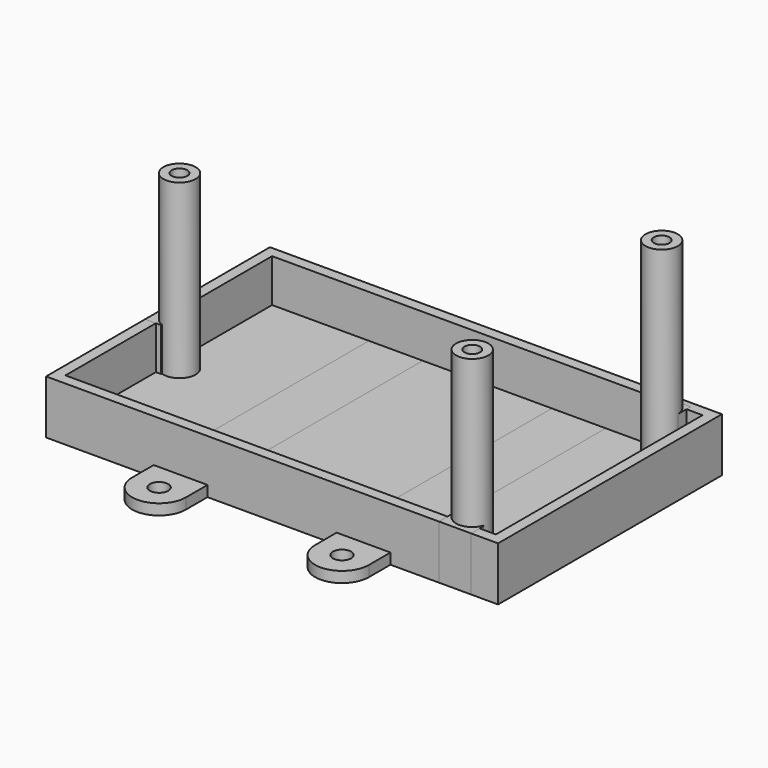
from build123d import *

# Parameters (mm, degrees)
CYLINDER005_R     = 1.45
CYLINDER005_DEPTH = 32
CYLINDER_R        = 3
CYLINDER_DEPTH    = 32
CYLINDER003_R     = 1.45
CYLINDER003_DEPTH = 35.5
CYLINDER001_R     = 3
CYLINDER001_DEPTH = 35.5
CYLINDER004_R     = 1.45
CYLINDER004_DEPTH = 35.5
CYLINDER002_R     = 3
CYLINDER002_DEPTH = 35.5
BOX001_W          = 80
BOX001_H          = 48
BOX001_DEPTH      = 10
BOX_W             = 84
BOX_H             = 52
BOX_DEPTH         = 10
BOX002_W          = 3
BOX002_H          = 6
BOX002_DEPTH      = 10
BOX003_W          = 6
BOX003_H          = 3
BOX003_DEPTH      = 10
BOX004_W          = 6
BOX004_H          = 3
BOX004_DEPTH      = 10
CYLINDER008_R     = 1.7
CYLINDER008_DEPTH = 2
CYLINDER009_R     = 1.7
CYLINDER009_DEPTH = 2
BOX005_W          = 10
BOX005_H          = 62
BOX005_DEPTH      = 2
CYLINDER006_R     = 5
CYLINDER006_DEPTH = 2
CYLINDER007_R     = 5
CYLINDER007_DEPTH = 2
CYLINDER010_R     = 1.7
CYLINDER010_DEPTH = 2
CYLINDER011_R     = 1.7
CYLINDER011_DEPTH = 2
BOX006_W          = 10
BOX006_H          = 62
BOX006_DEPTH      = 2
CYLINDER013_R     = 5
CYLINDER013_DEPTH = 2
CYLINDER012_R     = 5
CYLINDER012_DEPTH = 2


with BuildPart() as cylinder005:
    # Cylinder005 → Cylinder005 (new body)
    with BuildSketch(Plane(origin=(4, 26, 2), x_dir=(1, 0, 0), z_dir=(0, 0, 1))):
        Circle(CYLINDER005_R)
    extrude(amount=CYLINDER005_DEPTH)


with BuildPart() as cut:
    # Cylinder → Cylinder (new body)
    with BuildSketch(Plane(origin=(4, 26, 2), x_dir=(1, 0, 0), z_dir=(0, 0, 1))):
        Circle(CYLINDER_R)
    extrude(amount=CYLINDER_DEPTH)

    # Cut: cut Cylinder005
    add(cylinder005.part, mode=Mode.SUBTRACT)


with BuildPart() as cylinder003:
    # Cylinder003 → Cylinder003 (new body)
    with BuildSketch(Plane(origin=(76, 4, 2), x_dir=(1, 0, 0), z_dir=(0, 0, 1))):
        Circle(CYLINDER003_R)
    extrude(amount=CYLINDER003_DEPTH)


with BuildPart() as cut001:
    # Cylinder001 → Cylinder001 (new body)
    with BuildSketch(Plane(origin=(76, 4, 2), x_dir=(1, 0, 0), z_dir=(0, 0, 1))):
        Circle(CYLINDER001_R)
    extrude(amount=CYLINDER001_DEPTH)

    # Cut001: cut Cylinder003
    add(cylinder003.part, mode=Mode.SUBTRACT)


with BuildPart() as cylinder004:
    # Cylinder004 → Cylinder004 (new body)
    with BuildSketch(Plane(origin=(76, 48, 2), x_dir=(1, 0, 0), z_dir=(0, 0, 1))):
        Circle(CYLINDER004_R)
    extrude(amount=CYLINDER004_DEPTH)


with BuildPart() as cut002:
    # Cylinder002 → Cylinder002 (new body)
    with BuildSketch(Plane(origin=(76, 48, 2), x_dir=(1, 0, 0), z_dir=(0, 0, 1))):
        Circle(CYLINDER002_R)
    extrude(amount=CYLINDER002_DEPTH)

    # Cut002: cut Cylinder004
    add(cylinder004.part, mode=Mode.SUBTRACT)


with BuildPart() as cube001:
    # Box001 → Box001 (new body)
    with BuildSketch(Plane(origin=(2, 2, 2), x_dir=(1, 0, 0), z_dir=(0, 0, 1))):
        with Locations((40, 24)):
            Rectangle(BOX001_W, BOX001_H)
    extrude(amount=BOX001_DEPTH)


with BuildPart() as cut003:
    # Box → Box (new body)
    with BuildSketch(Plane.XY):
        with Locations((42, 26)):
            Rectangle(BOX_W, BOX_H)
    extrude(amount=BOX_DEPTH)

    # Cut003: cut Cube001
    add(cube001.part, mode=Mode.SUBTRACT)


with BuildPart() as cube002:
    # Box002 → Box002 (new body)
    with BuildSketch(Plane(origin=(0, 23, 0), x_dir=(1, 0, 0), z_dir=(0, 0, 1))):
        with Locations((1.5, 3)):
            Rectangle(BOX002_W, BOX002_H)
    extrude(amount=BOX002_DEPTH)


with BuildPart() as cube003:
    # Box003 → Box003 (new body)
    with BuildSketch(Plane(origin=(73, 0, 0), x_dir=(1, 0, 0), z_dir=(0, 0, 1))):
        with Locations((3, 1.5)):
            Rectangle(BOX003_W, BOX003_H)
    extrude(amount=BOX003_DEPTH)


with BuildPart() as cube004:
    # Box004 → Box004 (new body)
    with BuildSketch(Plane(origin=(73, 48, 0), x_dir=(1, 0, 0), z_dir=(0, 0, 1))):
        with Locations((3, 1.5)):
            Rectangle(BOX004_W, BOX004_H)
    extrude(amount=BOX004_DEPTH)


with BuildPart() as cylinder008:
    # Cylinder008 → Cylinder008 (new body)
    with BuildSketch(Plane(origin=(25, 57, 0), x_dir=(1, 0, 0), z_dir=(0, 0, 1))):
        Circle(CYLINDER008_R)
    extrude(amount=CYLINDER008_DEPTH)


with BuildPart() as fusion001:
    # Cylinder009 → Cylinder009 (new body)
    with BuildSketch(Plane(origin=(25, -5, 0), x_dir=(1, 0, 0), z_dir=(0, 0, 1))):
        Circle(CYLINDER009_R)
    extrude(amount=CYLINDER009_DEPTH)

    # Fusion001: union Cylinder008
    add(cylinder008.part)


with BuildPart() as cube005:
    # Box005 → Box005 (new body)
    with BuildSketch(Plane(origin=(20, -5, 0), x_dir=(1, 0, 0), z_dir=(0, 0, 1))):
        with Locations((5, 31)):
            Rectangle(BOX005_W, BOX005_H)
    extrude(amount=BOX005_DEPTH)


with BuildPart() as cylinder006:
    # Cylinder006 → Cylinder006 (new body)
    with BuildSketch(Plane(origin=(25, -5, 0), x_dir=(1, 0, 0), z_dir=(0, 0, 1))):
        Circle(CYLINDER006_R)
    extrude(amount=CYLINDER006_DEPTH)


with BuildPart() as cut004:
    # Cylinder007 → Cylinder007 (new body)
    with BuildSketch(Plane(origin=(25, 57, 0), x_dir=(1, 0, 0), z_dir=(0, 0, 1))):
        Circle(CYLINDER007_R)
    extrude(amount=CYLINDER007_DEPTH)

    # Fusion: union Cube005, Cylinder006
    add(cube005.part)
    add(cylinder006.part)

    # Cut004: cut Fusion001
    add(fusion001.part, mode=Mode.SUBTRACT)


with BuildPart() as cylinder010:
    # Cylinder010 → Cylinder010 (new body)
    with BuildSketch(Plane(origin=(25, 57, 0), x_dir=(1, 0, 0), z_dir=(0, 0, 1))):
        Circle(CYLINDER010_R)
    extrude(amount=CYLINDER010_DEPTH)


with BuildPart() as fusion002:
    # Cylinder011 → Cylinder011 (new body)
    with BuildSketch(Plane(origin=(25, -5, 0), x_dir=(1, 0, 0), z_dir=(0, 0, 1))):
        Circle(CYLINDER011_R)
    extrude(amount=CYLINDER011_DEPTH)

    # Fusion002: union Cylinder010
    add(cylinder010.part)


with BuildPart() as cube006:
    # Box006 → Box006 (new body)
    with BuildSketch(Plane(origin=(20, -5, 0), x_dir=(1, 0, 0), z_dir=(0, 0, 1))):
        with Locations((5, 31)):
            Rectangle(BOX006_W, BOX006_H)
    extrude(amount=BOX006_DEPTH)


with BuildPart() as cylinder013:
    # Cylinder013 → Cylinder013 (new body)
    with BuildSketch(Plane(origin=(25, -5, 0), x_dir=(1, 0, 0), z_dir=(0, 0, 1))):
        Circle(CYLINDER013_R)
    extrude(amount=CYLINDER013_DEPTH)


with BuildPart() as cut005:
    # Cylinder012 → Cylinder012 (new body)
    with BuildSketch(Plane(origin=(25, 57, 0), x_dir=(1, 0, 0), z_dir=(0, 0, 1))):
        Circle(CYLINDER012_R)
    extrude(amount=CYLINDER012_DEPTH)

    # Fusion003: union Cube006, Cylinder013
    add(cube006.part)
    add(cylinder013.part)

    # Cut005: cut Fusion002
    add(fusion002.part, mode=Mode.SUBTRACT)


with BuildPart() as cut005_1:
    # Cut005 placement: moved
    add(cut005.part.moved(Location((34, 0, 0))))


solid = Compound([cut.part, cut001.part, cut002.part, cut003.part, cube002.part, cube003.part, cube004.part, cut004.part, cut005_1.part])
